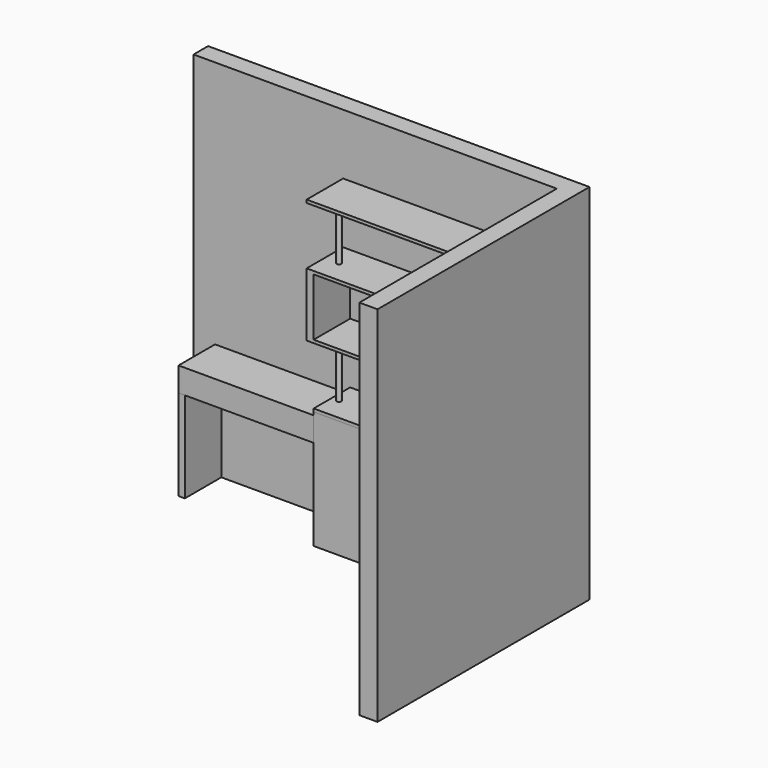
from build123d import *

# Parameters (mm, degrees)
F1_DEPTH  = 3000
F3_START  = 1975
F2_W      = 1263.8065814972
F2_H      = 376.9347667694
F2_R      = 19.0025065426
F2_W_2    = 409.7685664892
F2_R_2    = 12.4111522874
F2_W_3    = 32.9406410456
F3_DEPTH  = 25
F4_START  = 475
F3_FACE_W = 1706.515789032
F3_FACE_H = 376.9347667694
F4_DEPTH  = 25
F5_START  = 475
F4_FACE_W = 1706.515789032
F4_FACE_H = 376.9347667694
F5_DEPTH  = 25
F6_START  = 1475
F2_W_4    = 57.928442955
F6_DEPTH  = 525
F7_START  = 1000
F7_DEPTH  = 500
F8_START  = 475
F6_FACE_W = 1764.444231987
F6_FACE_H = 376.9347667694
F8_DEPTH  = 25
F9_START  = 2000
F9_DEPTH  = 500
F10_START = 1000
F10_DEPTH = 475
F11_START = 1500
F11_DEPTH = 475
F12_START = 2000
F12_DEPTH = 475
F13_DEPTH = 975
F14_START = 750
F2_W_5    = 1006.1699151993
F2_W_6    = 51.9174337387
F14_DEPTH = 200
F15_DEPTH = 750


with BuildPart() as f1:
    # F0 (on Top) → F1 (new body)
    with BuildSketch(Plane.XY):
        Polygon((-3000, 150), (-3000, 0), (0, 0), (0, -2038.0995258798), (150, -2038.0995258798), (150, 150), align=None)
    extrude(amount=F1_DEPTH)



with BuildPart() as f3:
    # F2 (on Top) → F3 (new body)
    with BuildSketch(Plane.XY.offset(F3_START)):
        with Locations((-1074.6124982834, -188.4673833847)):
            Rectangle(F2_W, F2_H)
        with Locations((-1646.6975212097, -188.4673833847)):
            Circle(F2_R, mode=Mode.SUBTRACT)
        with Locations((-237.8249242902, -188.4673833847)):
            Rectangle(F2_W_2, F2_H)
        with Locations((-106.6637337208, -188.4673833847)):
            Circle(F2_R_2, mode=Mode.SUBTRACT)
        with Locations((-1646.6975212097, -188.4673833847)):
            Circle(F2_R)
        with Locations((-16.4703205228, -188.4673833847)):
            Rectangle(F2_W_3, F2_H)
        with Locations((-106.6637337208, -188.4673833847)):
            Circle(F2_R_2)
    extrude(amount=F3_DEPTH)


with BuildPart() as f4:
    # F3_face (on face) → F4 (new body)
    with BuildSketch(Plane(origin=(-853.257894516, -188.4673833847, 1975), x_dir=(1, 0, 0), z_dir=(0, 0, -1)).offset(F4_START)):
        Rectangle(F3_FACE_W, F3_FACE_H)
    extrude(amount=F4_DEPTH)


with BuildPart() as f5:
    # F4_face (on face) → F5 (new body)
    with BuildSketch(Plane(origin=(-853.257894516, -188.4673833847, 1475), x_dir=(1, 0, 0), z_dir=(0, 0, -1)).offset(F5_START)):
        Rectangle(F4_FACE_W, F4_FACE_H)
    extrude(amount=F5_DEPTH)


with BuildPart() as f1_1:
    add(f1.part)

    add(f3.part)  # F6 merges F3

    add(f4.part)  # F6 merges F4
    # F2 (on Top) → F6 (join)
    with BuildSketch(Plane.XY.offset(F6_START)):
        with Locations((-1735.4800105095, -188.4673833847)):
            Rectangle(F2_W_4, F2_H)
    extrude(amount=F6_DEPTH)


    add(f5.part)  # F7 merges F5
    # F2 (on Top) → F7 (join)
    with BuildSketch(Plane.XY.offset(F7_START)):
        with Locations((-16.4703205228, -188.4673833847)):
            Rectangle(F2_W_3, F2_H)
    extrude(amount=F7_DEPTH)

    # F6_face (on face) → F8 (join)
    with BuildSketch(Plane(origin=(-882.2221159935, -188.4673833847, 2000), x_dir=(1, 0, 0), z_dir=(0, 0, 1)).offset(F8_START)):
        Rectangle(F6_FACE_W, F6_FACE_H)
    extrude(amount=F8_DEPTH)

    # F2 (on Top) → F9 (join)
    with BuildSketch(Plane.XY.offset(F9_START)):
        with Locations((-16.4703205228, -188.4673833847)):
            Rectangle(F2_W_3, F2_H)
    extrude(amount=F9_DEPTH)


with BuildPart() as f10:
    # F2 (on Top) → F10 (new body)
    with BuildSketch(Plane.XY.offset(F10_START)):
        with Locations((-1646.6975212097, -188.4673833847)):
            Circle(F2_R)
    extrude(amount=F10_DEPTH)


with BuildPart() as f11:
    # F2 (on Top) → F11 (new body)
    with BuildSketch(Plane.XY.offset(F11_START)):
        with Locations((-106.6637337208, -188.4673833847)):
            Circle(F2_R_2)
    extrude(amount=F11_DEPTH)


with BuildPart() as f12:
    # F2 (on Top) → F12 (new body)
    with BuildSketch(Plane.XY.offset(F12_START)):
        with Locations((-1646.6975212097, -188.4673833847)):
            Circle(F2_R)
    extrude(amount=F12_DEPTH)


with BuildPart() as f13:
    # F13 (new): a face of the model
    f13_faces = [f1_1.part.faces().sort_by_distance(p)[0] for p in [
        (-853.257894516, -188.4673833847, 975),
    ]]
    extrude(f13_faces, amount=F13_DEPTH)


with BuildPart() as f14:
    # F2 (on Top) → F14 (new body)
    with BuildSketch(Plane.XY.offset(F14_START)):
        with Locations((-2267.5291895866, -188.4673833847)):
            Rectangle(F2_W_5, F2_H)
        with Locations((-2796.5728640556, -188.4673833847)):
            Rectangle(F2_W_6, F2_H)
        with Locations((-1735.4800105095, -188.4673833847)):
            Rectangle(F2_W_4, F2_H)
    extrude(amount=F14_DEPTH)


with BuildPart() as f15:
    # F2 (on Top) → F15 (new body)
    with BuildSketch(Plane.XY):
        with Locations((-2796.5728640556, -188.4673833847)):
            Rectangle(F2_W_6, F2_H)
    extrude(amount=F15_DEPTH)


solid = Compound([f1_1.part, f10.part, f11.part, f12.part, f13.part, f14.part, f15.part])
